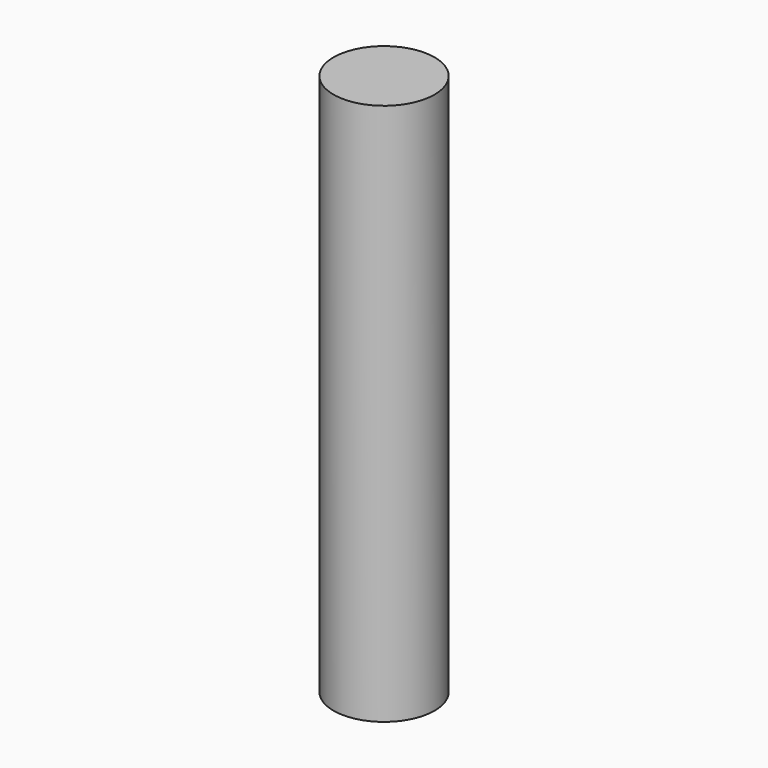
from build123d import *

# Parameters (mm, degrees)
CYLINDER_R     = 1.397
CYLINDER_DEPTH = 15


with BuildPart() as part:
    # Cylinder → Cylinder (new body)
    with BuildSketch(Plane.XY.offset(-2.5)):
        Circle(CYLINDER_R)
    extrude(amount=CYLINDER_DEPTH)


solid = part.part
